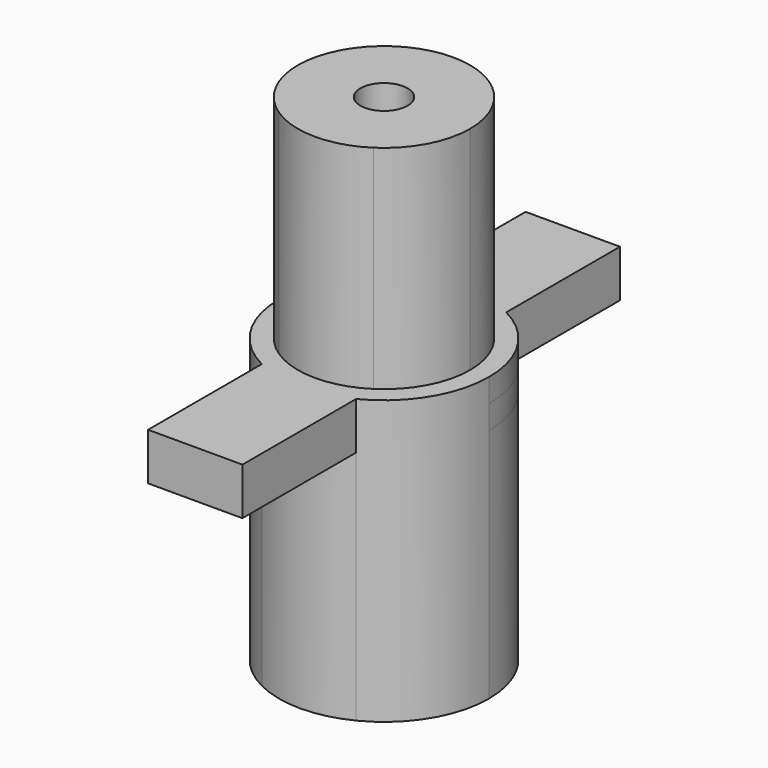
from build123d import *

# Parameters (mm, degrees)
F0_R     = 1
F1_DEPTH = 11
F2_DEPTH = 1
F3_DEPTH = 10


with BuildPart() as f1:
    # F0 (on Top) → F1 (new body)
    with BuildSketch(Plane.XY):
        with BuildLine():
            Line((-2, 3.0532769282), (-2, 3.9752358421))
            ThreePointArc((-2, 3.9752358421), (-4.45, 0), (-2, -3.9752358421))
            Line((-2, -3.9752358421), (-2, -3.0532769282))
            ThreePointArc((-2, -3.0532769282), (-3.65, 0), (-2, 3.0532769282))
        make_face()
        with BuildLine():
            ThreePointArc((-2, -3.9752358421), (0, -4.45), (2, -3.9752358421))
            Line((2, -3.9752358421), (2, -3.0532769282))
            ThreePointArc((2, -3.0532769282), (0, -3.65), (-2, -3.0532769282))
            Line((-2, -3.0532769282), (-2, -3.9752358421))
        make_face()
        with BuildLine():
            ThreePointArc((2, -3.9752358421), (3.78830437, -2.3347912112), (4.45, 0))
            ThreePointArc((4.45, 0), (3.78830437, 2.3347912112), (2, 3.9752358421))
            Line((2, 3.9752358421), (2, 3.0532769282))
            ThreePointArc((2, 3.0532769282), (3.211113514, 1.7352953639), (3.65, 0))
            ThreePointArc((3.65, 0), (3.211113514, -1.7352953639), (2, -3.0532769282))
            Line((2, -3.0532769282), (2, -3.9752358421))
        make_face()
        with BuildLine():
            Line((2, 3.0532769282), (2, 3.9752358421))
            ThreePointArc((2, 3.9752358421), (0, 4.45), (-2, 3.9752358421))
            Line((-2, 3.9752358421), (-2, 3.0532769282))
            ThreePointArc((-2, 3.0532769282), (0, 3.65), (2, 3.0532769282))
        make_face()
        with BuildLine():
            Line((-2, -3.0532769282), (-2, 3.0532769282))
            ThreePointArc((-2, 3.0532769282), (-3.65, 0), (-2, -3.0532769282))
        make_face()
        with BuildLine():
            Line((2, -3.0532769282), (2, 3.0532769282))
            ThreePointArc((2, 3.0532769282), (0, 3.65), (-2, 3.0532769282))
            Line((-2, 3.0532769282), (-2, -3.0532769282))
            ThreePointArc((-2, -3.0532769282), (0, -3.65), (2, -3.0532769282))
        make_face()
        Circle(F0_R, mode=Mode.SUBTRACT)
        with BuildLine():
            ThreePointArc((3.65, 0), (3.211113514, 1.7352953639), (2, 3.0532769282))
            Line((2, 3.0532769282), (2, -3.0532769282))
            ThreePointArc((2, -3.0532769282), (3.211113514, -1.7352953639), (3.65, 0))
        make_face()
    extrude(amount=-F1_DEPTH)

    # F0 (on Top) → F2 (join, symmetric)
    with BuildSketch(Plane.XY):
        with BuildLine():
            ThreePointArc((-2, 3.9752358421), (0, 4.45), (2, 3.9752358421))
            Line((2, 3.9752358421), (2, 10))
            Line((2, 10), (-2, 10))
            Line((-2, 10), (-2, 3.9752358421))
        make_face()
        with BuildLine():
            Line((2, -10), (2, -3.9752358421))
            ThreePointArc((2, -3.9752358421), (0, -4.45), (-2, -3.9752358421))
            Line((-2, -3.9752358421), (-2, -10))
            Line((-2, -10), (2, -10))
        make_face()
        with BuildLine():
            Line((2, 3.0532769282), (2, 3.9752358421))
            ThreePointArc((2, 3.9752358421), (0, 4.45), (-2, 3.9752358421))
            Line((-2, 3.9752358421), (-2, 3.0532769282))
            ThreePointArc((-2, 3.0532769282), (0, 3.65), (2, 3.0532769282))
        make_face()
        with BuildLine():
            ThreePointArc((-2, -3.9752358421), (0, -4.45), (2, -3.9752358421))
            Line((2, -3.9752358421), (2, -3.0532769282))
            ThreePointArc((2, -3.0532769282), (0, -3.65), (-2, -3.0532769282))
            Line((-2, -3.0532769282), (-2, -3.9752358421))
        make_face()
        with BuildLine():
            Line((-2, 3.0532769282), (-2, 3.9752358421))
            ThreePointArc((-2, 3.9752358421), (-4.45, 0), (-2, -3.9752358421))
            Line((-2, -3.9752358421), (-2, -3.0532769282))
            ThreePointArc((-2, -3.0532769282), (-3.65, 0), (-2, 3.0532769282))
        make_face()
        with BuildLine():
            ThreePointArc((2, -3.9752358421), (3.78830437, -2.3347912112), (4.45, 0))
            ThreePointArc((4.45, 0), (3.78830437, 2.3347912112), (2, 3.9752358421))
            Line((2, 3.9752358421), (2, 3.0532769282))
            ThreePointArc((2, 3.0532769282), (3.211113514, 1.7352953639), (3.65, 0))
            ThreePointArc((3.65, 0), (3.211113514, -1.7352953639), (2, -3.0532769282))
            Line((2, -3.0532769282), (2, -3.9752358421))
        make_face()
    extrude(amount=F2_DEPTH, both=True)

    # F0 (on Top) → F3 (join)
    with BuildSketch(Plane.XY):
        with BuildLine():
            Line((-2, -3.0532769282), (-2, 3.0532769282))
            ThreePointArc((-2, 3.0532769282), (-3.65, 0), (-2, -3.0532769282))
        make_face()
        with BuildLine():
            Line((2, -3.0532769282), (2, 3.0532769282))
            ThreePointArc((2, 3.0532769282), (0, 3.65), (-2, 3.0532769282))
            Line((-2, 3.0532769282), (-2, -3.0532769282))
            ThreePointArc((-2, -3.0532769282), (0, -3.65), (2, -3.0532769282))
        make_face()
        Circle(F0_R, mode=Mode.SUBTRACT)
        with BuildLine():
            ThreePointArc((3.65, 0), (3.211113514, 1.7352953639), (2, 3.0532769282))
            Line((2, 3.0532769282), (2, -3.0532769282))
            ThreePointArc((2, -3.0532769282), (3.211113514, -1.7352953639), (3.65, 0))
        make_face()
    extrude(amount=F3_DEPTH)


solid = f1.part
